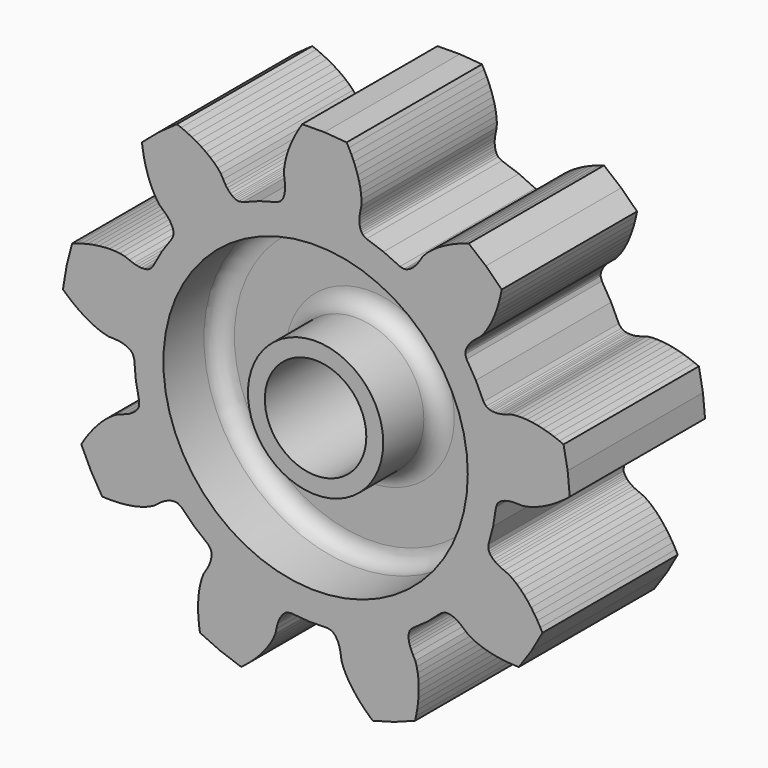
from build123d import *

# Parameters (mm, degrees)
F0_R     = 3
F1_DEPTH = 10
F2_R     = 9
F2_R_2   = 4
F3_DEPTH = 4
F4_R     = 1


with BuildPart() as f1:
    # F0 (on Front) → F1 (new body)
    with BuildSketch(Plane.XZ):
        Polygon((22.109344, 0.530299), (22.188184, 0.295159), (22.283944, -0.768161), (22.484944, -1.816661), (22.473964, -2.064401), (22.428544, -2.171681), (22.376944, -2.254361), (22.321924, -2.323781), (22.264504, -2.384261), (22.144744, -2.486921), (22.020004, -2.572001), (21.891484, -2.644121), (21.759904, -2.705861), (21.488944, -2.804201), (21.216064, -2.896241), (20.959384, -3.040001), (20.712004, -3.211661), (20.472484, -3.405341), (20.240464, -3.618221), (20.015944, -3.848621), (19.798984, -4.095341), (19.589764, -4.357481), (19.388584, -4.634381), (19.195624, -4.925321), (19.056604, -5.152421), (19.623064, -6.340301), (20.291104, -7.474181), (20.557144, -7.485941), (20.906224, -7.488701), (21.248284, -7.476701), (21.582604, -7.449821), (21.908464, -7.407941), (22.225024, -7.350641), (22.531264, -7.277321), (22.825744, -7.187081), (23.106424, -7.077941), (23.369164, -6.945581), (23.598004, -6.770741), (23.831044, -6.601181), (23.955844, -6.526601), (24.087484, -6.460361), (24.227764, -6.404561), (24.379864, -6.362621), (24.462124, -6.348881), (24.550384, -6.342041), (24.647824, -6.345521), (24.762184, -6.367841), (24.973684, -6.497321), (25.730584, -7.250261), (26.558464, -7.924241), (26.709364, -8.121101), (26.743504, -8.232461), (26.757124, -8.329001), (26.759584, -8.417561), (26.754484, -8.500781), (26.728684, -8.656361), (26.687824, -8.801741), (26.635744, -8.939561), (26.574604, -9.071501), (26.430304, -9.320981), (26.280424, -9.566861), (26.176204, -9.842021), (26.097004, -10.132541), (26.038024, -10.434881), (25.997164, -10.747061), (25.973224, -11.067881), (25.965664, -11.396381), (25.973884, -11.731661), (25.997704, -12.073061), (26.036944, -12.419921), (26.076424, -12.683321), (27.273904, -13.229201), (28.514524, -13.668341), (28.725844, -13.506341), (28.995004, -13.284041), (29.249344, -13.055021), (29.488204, -12.819581), (29.710864, -12.577961), (29.916544, -12.330581), (30.103984, -12.077621), (30.271564, -11.819201), (30.416464, -11.555201), (30.532624, -11.284901), (30.595564, -11.003861), (30.665104, -10.724141), (30.712744, -10.586801), (30.771064, -10.451441), (30.842644, -10.318541), (30.932164, -10.188641), (30.986344, -10.125281), (31.049584, -10.063241), (31.126444, -10.003301), (31.228384, -9.946901), (31.473664, -9.910121), (32.537404, -10.000361), (33.604924, -9.984521), (33.846964, -10.038341), (33.944764, -10.101701), (34.017244, -10.166921), (34.075984, -10.233161), (34.125604, -10.300181), (34.205884, -10.435961), (34.268044, -10.573601), (34.316704, -10.712681), (34.354684, -10.853021), (34.404544, -11.136881), (34.447744, -11.421581), (34.544764, -11.699321), (34.670884, -11.972801), (34.819984, -12.242321), (34.989364, -12.507761), (35.177284, -12.768881), (35.382544, -13.025381), (35.604424, -13.276961), (35.842144, -13.523141), (36.095164, -13.763681), (36.294664, -13.940081), (37.562884, -13.588481), (38.795524, -13.127501), (38.853304, -12.867521), (38.916604, -12.524201), (38.964184, -12.185261), (38.995804, -11.851361), (39.011104, -11.523161), (39.009664, -11.201501), (38.990644, -10.887161), (38.952904, -10.581521), (38.894164, -10.286141), (38.809444, -10.004381), (38.677024, -9.748661), (38.550484, -9.489701), (38.498704, -9.353861), (38.456344, -9.212681), (38.425744, -9.064841), (38.410864, -8.907821), (38.411584, -8.824421), (38.420224, -8.736281), (38.440564, -8.640941), (38.482384, -8.532221), (38.646604, -8.346401), (39.519544, -7.731761), (40.327084, -7.033421), (40.547104, -6.919061), (40.662724, -6.904781), (40.760164, -6.908141), (40.847764, -6.921101), (40.928884, -6.940541), (41.077624, -6.992981), (41.213704, -7.058441), (41.340424, -7.133681), (41.459704, -7.216781), (41.680324, -7.402241), (41.896444, -7.592561), (42.149344, -7.742921), (42.421684, -7.871381), (42.709144, -7.981961), (43.009504, -8.076461), (43.321324, -8.155661), (43.643464, -8.220221), (43.975144, -8.270321), (44.315464, -8.306141), (44.663884, -8.327741), (44.930104, -8.334581), (45.675664, -7.250081), (46.323604, -6.104621), (46.200724, -5.868341), (46.028584, -5.564621), (45.847144, -5.274461), (45.656764, -4.998341), (45.457504, -4.737041), (45.249604, -4.491581), (45.033004, -4.263041), (44.807584, -4.053101), (44.572744, -3.864641), (44.326744, -3.703241), (44.060944, -3.592481), (43.797544, -3.475421), (43.670524, -3.404621), (43.547404, -3.323741), (43.428904, -3.230141), (43.316584, -3.119441), (43.263544, -3.055061), (43.213444, -2.981981), (43.167784, -2.895881), (43.129924, -2.785721), (43.136284, -2.537801), (43.409884, -1.505861), (43.579624, -0.451841), (43.674724, -0.222821), (43.754044, -0.137501), (43.830844, -0.077441), (43.906324, -0.031061), (43.980904, 0.006139), (44.128564, 0.061579), (44.274904, 0.098899), (44.420344, 0.122719), (44.565124, 0.135739), (44.853364, 0.135499), (45.141244, 0.128599), (45.431644, 0.175939), (45.722824, 0.252679), (46.014124, 0.352699), (46.304944, 0.473419), (46.594744, 0.613099), (46.882984, 0.770779), (47.169244, 0.945559), (47.453044, 1.136899), (47.733784, 1.344319), (47.942164, 1.510159), (47.816164, 2.820199), (47.576164, 4.114159), (47.330164, 4.216159), (47.003104, 4.338139), (46.677604, 4.443859), (46.354264, 4.532959), (46.033684, 4.605079), (45.716644, 4.659499), (45.403804, 4.695319), (45.096244, 4.711219), (44.795164, 4.704679), (44.502964, 4.670179), (44.228104, 4.584199), (43.951144, 4.504519), (43.808344, 4.477099), (43.662004, 4.459939), (43.511044, 4.455439), (43.353844, 4.468039), (43.271824, 4.483279), (43.186564, 4.507039), (43.096144, 4.543639), (42.996364, 4.603699), (42.841864, 4.797739), (42.388144, 5.764099), (41.840704, 6.680659), (41.766244, 6.917239), (41.772244, 7.033579), (41.792464, 7.128919), (41.820424, 7.212979), (41.853664, 7.289419), (41.931184, 7.426819), (42.019264, 7.549459), (42.115324, 7.661179), (42.217924, 7.764199), (42.438844, 7.949299), (42.663844, 8.129059), (42.855844, 8.352019), (43.029604, 8.597959), (43.188424, 8.861839), (43.333624, 9.141259), (43.465804, 9.434539), (43.585324, 9.740599), (43.692244, 10.058479), (43.786624, 10.387459), (43.868404, 10.726819), (43.921384, 10.987819), (42.982804, 11.910319), (41.967244, 12.747319), (41.713204, 12.667339), (41.384284, 12.550579), (41.066944, 12.422299), (40.761964, 12.282739), (40.470064, 12.131899), (40.192204, 11.969779), (39.929524, 11.796199), (39.683704, 11.610619), (39.457264, 11.412079), (39.255604, 11.197819), (39.100384, 10.955299), (38.939344, 10.716259), (38.847604, 10.603459), (38.746564, 10.496239), (38.633824, 10.395799), (38.505244, 10.304359), (38.432644, 10.263319), (38.352004, 10.226719), (38.259304, 10.196659), (38.144224, 10.178539), (37.901164, 10.227799), (36.932404, 10.676479), (35.923864, 11.026699), (35.714824, 11.160079), (35.644624, 11.253019), (35.598784, 11.339059), (35.566204, 11.421439), (35.542504, 11.501419), (35.513584, 11.656459), (35.502244, 11.806999), (35.504044, 11.954359), (35.516344, 12.099199), (35.566624, 12.383059), (35.623384, 12.665359), (35.627224, 12.959539), (35.602264, 13.259659), (35.554264, 13.563919), (35.485924, 13.871239), (35.398624, 14.180899), (35.293444, 14.492179), (35.171044, 14.804419), (35.031904, 15.117079), (34.876384, 15.429619), (34.749184, 15.663619), (33.437224, 15.766999), (32.121244, 15.755419), (31.978084, 15.530839), (31.801144, 15.229939), (31.640524, 14.927719), (31.496584, 14.624779), (31.369924, 14.321599), (31.261324, 14.018779), (31.171684, 13.716919), (31.102624, 13.416799), (31.056784, 13.119139), (31.040044, 12.825379), (31.077004, 12.539839), (31.107304, 12.253159), (31.109524, 12.107839), (31.101004, 11.960719), (31.079224, 11.811319), (31.039504, 11.658619), (31.010284, 11.580559), (30.972064, 11.500639), (30.920344, 11.418019), (30.843844, 11.330179), (30.625984, 11.211679), (29.595484, 10.932679), (28.597804, 10.552699), (28.351864, 10.520479), (28.238344, 10.546579), (28.147924, 10.583059), (28.070044, 10.625179), (28.000504, 10.671199), (27.878644, 10.771339), (27.773164, 10.879399), (27.679864, 10.993459), (27.596164, 11.112319), (27.452284, 11.362039), (27.314284, 11.614819), (27.128104, 11.842639), (26.916064, 12.056479), (26.683744, 12.258739), (26.433844, 12.450259), (26.167924, 12.631339), (25.887304, 12.802159), (25.592764, 12.962659), (25.285204, 13.112779), (24.965164, 13.252219), (24.717364, 13.349719), (23.645884, 12.585619), (22.645204, 11.730799), (22.679884, 11.466739), (22.737784, 11.122519), (22.809004, 10.787719), (22.893484, 10.463179), (22.991344, 10.149499), (23.102764, 9.847699), (23.228104, 9.558859), (23.368144, 9.284539), (23.524324, 9.027079), (23.700304, 8.791279), (23.912224, 8.596279), (24.119704, 8.396239), (24.214804, 8.286259), (24.302884, 8.168119), (24.382204, 8.039659), (24.449944, 7.897219), (24.477724, 7.818559), (24.499804, 7.732819), (24.513304, 7.636219), (24.511144, 7.519759), (24.420424, 7.288999), (23.810344, 6.412879), (23.290324, 5.480479), (23.122684, 5.297719), (23.018944, 5.244739), (22.926244, 5.214559), (22.839484, 5.196799), (22.756624, 5.187319), (22.598884, 5.185699), (22.448644, 5.200699), (22.303864, 5.228059), (22.163344, 5.265379), (21.892564, 5.364139), (21.624364, 5.469079), (21.335344, 5.523919), (21.035464, 5.551459), (20.727484, 5.557039), (20.412904, 5.543119), (20.092804, 5.510959), (19.768024, 5.461399), (19.439284, 5.395039), (19.107184, 5.312299), (18.772384, 5.213419), (18.519844, 5.128819), (18.190204, 3.854719), (17.973124, 2.556739), (18.169384, 2.376739), (18.435064, 2.150239), (18.704764, 1.939579), (18.978124, 1.745239), (19.254724, 1.567879), (19.534024, 1.408279), (19.815724, 1.267579), (20.099344, 1.147459), (20.384464, 1.050619), (20.670844, 0.983119), (20.958544, 0.969919), (21.246064, 0.950059), (21.389644, 0.926959), (21.533044, 0.893059), (21.676384, 0.845659), (21.819784, 0.780019), (21.891664, 0.737719), (21.963664, 0.686179), (22.036084, 0.620899), align=None)
        with Locations((32.911984, 0.725539)):
            Circle(F0_R, mode=Mode.SUBTRACT)
    extrude(amount=F1_DEPTH)

    # F2 (on face) → F3 (cut)
    with BuildSketch(Plane.XZ.offset(10)):
        with Locations((32.911984, 0.725539)):
            Circle(F2_R)
        with Locations((32.911984, 0.725539)):
            Circle(F2_R_2, mode=Mode.SUBTRACT)
    extrude(amount=-F3_DEPTH, mode=Mode.SUBTRACT)

    # F4
    f4_edges = [f1.edges().sort_by_distance(p)[0] for p in [
        (23.911984, -6, 0.725539),
        (28.911984, -6, 0.725539),
    ]]
    fillet(f4_edges, radius=F4_R)


solid = f1.part
